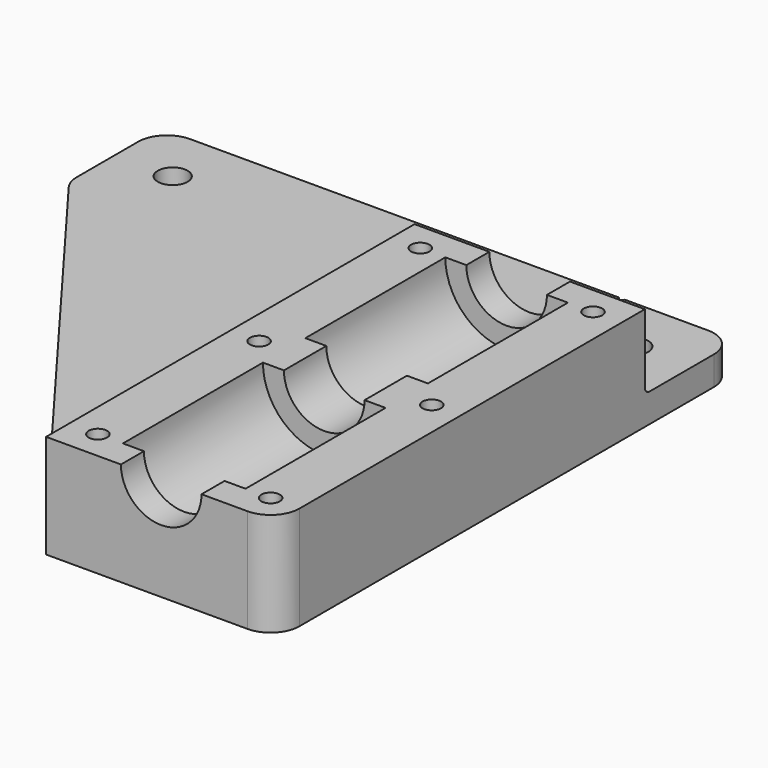
from build123d import *

# Parameters (mm, degrees)
PAD_DEPTH       = 80
PAD_DEPTH_BACK  = 20
SKETCH001_R     = 2.6
SKETCH001_R_2   = 1.6
SKETCH001_R_3   = 0.5
POCKET_DEPTH    = 18.001
SKETCH002_W     = 66.71416
SKETCH002_H     = 42.248775
POCKET001_DEPTH = 13
SKETCH003_R     = 10.65
POCKET002_DEPTH = 30.4
SKETCH004_R     = 10.65
POCKET003_DEPTH = 30.4
POCKET004_DEPTH = 3
FILLET_R        = 5
FILLET001_R     = 1


with BuildPart() as part:
    # Sketch → Pad (new body, two sides)
    with BuildSketch(Plane.XZ) as pad_sk:
        with BuildLine():
            Line((-80, -18), (-80, -13))
            Line((-80, -13), (-20, -13))
            Line((-20, -13), (-20, 0))
            Line((-7, 0), (-20, 0))
            ThreePointArc((-7, 0), (0, -7), (7, 0))
            Line((7, 0), (20, 0))
            Line((20, 0), (20, -18))
            Line((20, -18), (-80, -18))
        make_face()
    extrude(amount=PAD_DEPTH)
    extrude(pad_sk.sketch, amount=-PAD_DEPTH_BACK)

    # Sketch001 → Pocket (cut, through all)
    with BuildSketch(Plane.XY):
        with Locations((-70, 10)):
            Circle(SKETCH001_R)
        with Locations((-30, 10)):
            Circle(SKETCH001_R)
        with Locations((10, 10)):
            Circle(SKETCH001_R)
        with Locations((-15, -5)):
            Circle(SKETCH001_R_2)
        with Locations((-15, -40)):
            Circle(SKETCH001_R_2)
        with Locations((-15, -75)):
            Circle(SKETCH001_R_2)
        with Locations((15, -5)):
            Circle(SKETCH001_R_2)
        with Locations((15, -40)):
            Circle(SKETCH001_R_2)
        with Locations((15, -75)):
            Circle(SKETCH001_R_2)
        with Locations((0, 20)):
            Circle(SKETCH001_R_3)
        Polygon((-80, 0), (-80, -80), (-20, -80), align=None)
    extrude(amount=-POCKET_DEPTH, mode=Mode.SUBTRACT)

    # Sketch002 → Pocket001 (cut)
    with BuildSketch(Plane.XY):
        with Locations((0, 21.124387)):
            Rectangle(SKETCH002_W, SKETCH002_H)
    extrude(amount=-POCKET001_DEPTH, mode=Mode.SUBTRACT)

    # Sketch003 (on DatumPlane) → Pocket002 (cut)
    with BuildSketch(Plane.XZ.offset(5)):
        Circle(SKETCH003_R)
    extrude(amount=POCKET002_DEPTH, mode=Mode.SUBTRACT)

    # Sketch004 (on DatumPlane) → Pocket003 (cut)
    with BuildSketch(Plane.XZ.offset(75)):
        Circle(SKETCH004_R)
    extrude(amount=-POCKET003_DEPTH, mode=Mode.SUBTRACT)

    # Sketch005 (on DatumPlane) → Pocket004 (cut)
    with BuildSketch(Plane.XY.offset(-18)):
        Polygon((-12.25, -6.587713), (-12.25, -3.412287), (-15, -1.824574), (-17.75, -3.412287), (-17.75, -6.587713), (-15, -8.175426), align=None)
        Polygon((17.75, -6.587713), (17.75, -3.412287), (15, -1.824574), (12.25, -3.412287), (12.25, -6.587713), (15, -8.175426), align=None)
        Polygon((-12.25, -41.587713), (-12.25, -38.412287), (-15, -36.824574), (-17.75, -38.412287), (-17.75, -41.587713), (-15, -43.175426), align=None)
        Polygon((17.75, -41.587713), (17.75, -38.412287), (15, -36.824574), (12.25, -38.412287), (12.25, -41.587713), (15, -43.175426), align=None)
        Polygon((-12.25, -76.587713), (-12.25, -73.412287), (-15, -71.824574), (-17.75, -73.412287), (-17.75, -76.587713), (-15, -78.175426), align=None)
        Polygon((17.75, -76.587713), (17.75, -73.412287), (15, -71.824574), (12.25, -73.412287), (12.25, -76.587713), (15, -78.175426), align=None)
    extrude(amount=POCKET004_DEPTH, mode=Mode.SUBTRACT)

    # Fillet
    fillet_edges = [part.edges().sort_by_distance(p)[0] for p in [
        (-80, 20, -15.5),
        (-80, 0, -15.5),
        (20, -80, -9),
        (20, 20, -15.5),
    ]]
    fillet(fillet_edges, radius=FILLET_R)

    # Fillet001
    fillet001_edges = [part.edges().sort_by_distance(p)[0] for p in [
        (-20, -40, -13),
        (0, 0, -13),
    ]]
    fillet(fillet001_edges, radius=FILLET001_R)


solid = part.part
